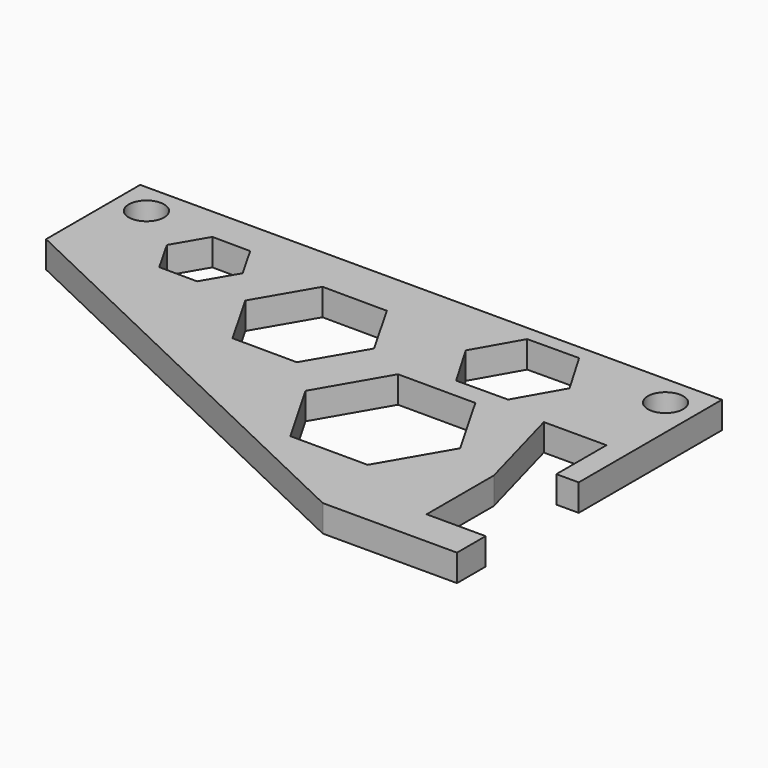
from build123d import *

# Parameters (mm, degrees)
F0_R     = 3.95
F1_DEPTH = 6


with BuildPart() as f1:
    # F0 (on Top) → F1 (new body)
    with BuildSketch(Plane.XY):
        Polygon((53.84666, 30.722071), (-76.15334, 30.722071), (-76.15334, 4.438029), (23.84666, -43.277929), (53.84666, -43.277929), (53.84666, -35.277929), (40.64666, -35.277929), (40.64666, -16.499616), (34.84666, 4.722071), (48.84666, 4.722071), (48.84666, -9.277929), (53.84666, -9.277929), align=None)
        Polygon((29.634969, -12.120992), (20.942271, -27.102214), (3.621804, -27.064728), (-5.005966, -12.04602), (3.686731, 2.935202), (21.007199, 2.897716), align=None, mode=Mode.SUBTRACT)
        Polygon((-5.652112, 7.919449), (-12.925933, -4.547502), (-27.359539, -4.481664), (-34.519325, 8.051125), (-27.245504, 20.518076), (-12.811898, 20.452238), align=None, mode=Mode.SUBTRACT)
        Polygon((-41.32622, 15.791604), (-45.621206, 8.456361), (-54.121206, 8.508307), (-58.32622, 15.895495), (-54.031233, 23.230739), (-45.531233, 23.178793), align=None, mode=Mode.SUBTRACT)
        with Locations((-69.15334, 23.722071)):
            Circle(F0_R, mode=Mode.SUBTRACT)
        Polygon((7.283409, 17.353729), (12.993321, 27.390174), (24.540094, 27.463468), (30.376955, 17.500317), (24.667043, 7.463871), (13.12027, 7.390577), align=None, mode=Mode.SUBTRACT)
        with Locations((46.84666, 23.722071)):
            Circle(F0_R, mode=Mode.SUBTRACT)
    extrude(amount=F1_DEPTH)


solid = f1.part
